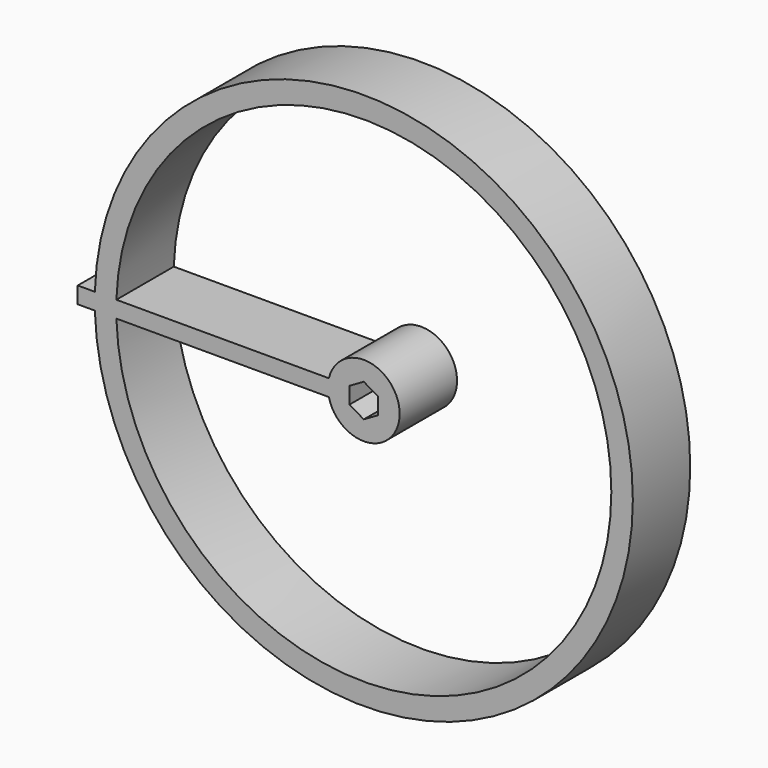
from build123d import *

# Parameters (mm, degrees)
F1_DEPTH = 5


with BuildPart() as f1:
    # F0 (on Front) → F1 (new body, symmetric)
    with BuildSketch(Plane.XZ):
        with BuildLine():
            ThreePointArc((21.8833147946, 9.747566411), (59.9429515251, -26.5932872886), (96.8655328008, 10.9022669494))
            ThreePointArc((96.8655328008, 10.9022669494), (59.9429515251, 48.3978211874), (21.8833147946, 12.0569674878))
            Line((21.8833147946, 12.0569674878), (24.884861887, 12.0569674878))
            ThreePointArc((24.884861887, 12.0569674878), (59.9429639541, 45.3974343394), (93.8655328008, 10.9022669494))
            ThreePointArc((93.8655328008, 10.9022669494), (59.9429639541, -23.5929004406), (24.884861887, 9.747566411))
            Line((24.884861887, 9.747566411), (21.8833147946, 9.747566411))
        make_face()
        with BuildLine():
            Line((24.884861887, 12.0569674878), (21.8833147946, 12.0569674878))
            ThreePointArc((21.8833147946, 12.0569674878), (21.8655328008, 10.9022669494), (21.8833147946, 9.747566411))
            Line((21.8833147946, 9.747566411), (24.884861887, 9.747566411))
            ThreePointArc((24.884861887, 9.747566411), (24.8655328008, 10.9022669494), (24.884861887, 12.0569674878))
        make_face()
        with BuildLine():
            ThreePointArc((21.8833147946, 9.747566411), (21.8655328008, 10.9022669494), (21.8833147946, 12.0569674878))
            Line((21.8833147946, 12.0569674878), (19.5006929611, 12.0569674878))
            Line((19.5006929611, 12.0569674878), (19.5006929611, 9.747566411))
            Line((19.5006929611, 9.747566411), (21.8833147946, 9.747566411))
        make_face()
        with BuildLine():
            Line((54.5006929611, 12.0569674878), (24.884861887, 12.0569674878))
            ThreePointArc((24.884861887, 12.0569674878), (24.8655328008, 10.9022669494), (24.884861887, 9.747566411))
            Line((24.884861887, 9.747566411), (54.5006929611, 9.747566411))
            ThreePointArc((54.5006929611, 9.747566411), (64.3655328008, 10.9022669494), (54.5006929611, 12.0569674878))
        make_face()
        Polygon((59.3655328008, 13.2116680262), (61.3655328008, 12.0569674878), (61.3655328008, 9.747566411), (59.3655328008, 8.5928658727), (57.3655328008, 9.747566411), (57.3655328008, 12.0569674878), align=None, mode=Mode.SUBTRACT)
    extrude(amount=F1_DEPTH, both=True)


solid = f1.part
